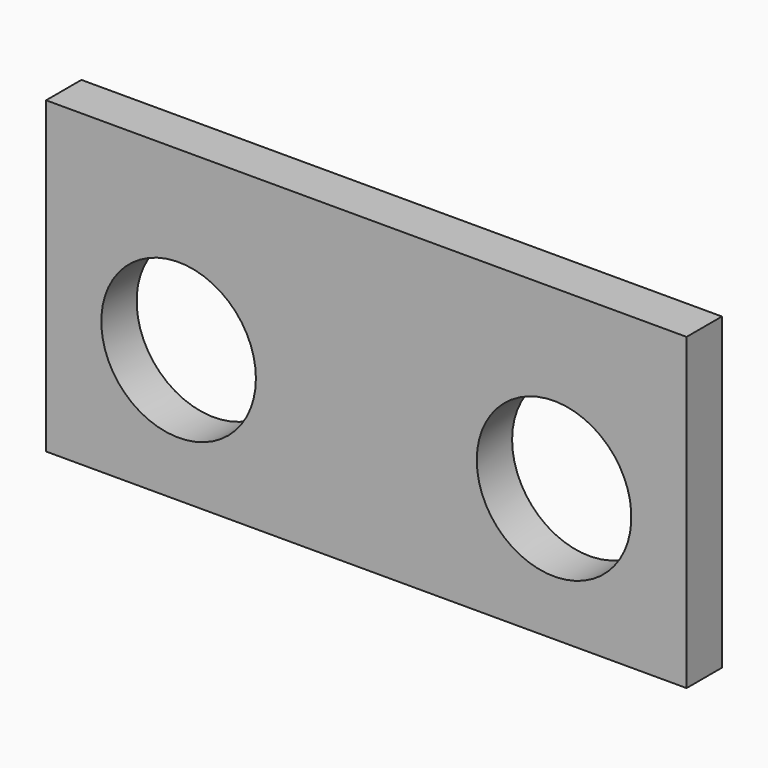
from build123d import *

# Parameters (mm, degrees)
F0_W     = 92.075
F0_H     = 12.7
F0_R     = 22.225
F1_DEPTH = 12.7


with BuildPart() as f1:
    # F0 (on Front) → F1 (new body)
    with BuildSketch(Plane.XZ):
        with Locations((46.0375, 38.1)):
            Rectangle(F0_W, F0_H)
        with Locations((-46.0375, 38.1)):
            Rectangle(F0_W, F0_H)
        with Locations((-53.975, -6.35)):
            Circle(F0_R)
        with BuildLine():
            ThreePointArc((76.2, -6.35), (53.975, 15.875), (31.75, -6.35))
            ThreePointArc((31.75, -6.35), (53.975, -28.575), (76.2, -6.35))
        make_face()
        Polygon((92.075, -31.75), (92.075, 31.75), (0, 31.75), (-92.075, 31.75), (-92.075, -31.75), (0, -31.75), align=None)
        with Locations((-53.975, -6.35)):
            Circle(F0_R, mode=Mode.SUBTRACT)
        with BuildLine():
            ThreePointArc((76.2, -6.35), (53.975, -28.575), (31.75, -6.35))
            ThreePointArc((31.75, -6.35), (53.975, 15.875), (76.2, -6.35))
        make_face(mode=Mode.SUBTRACT)
        with Locations((46.0375, -38.1)):
            Rectangle(F0_W, F0_H)
        with Locations((-46.0375, -38.1)):
            Rectangle(F0_W, F0_H)
    extrude(amount=F1_DEPTH)


solid = f1.part
